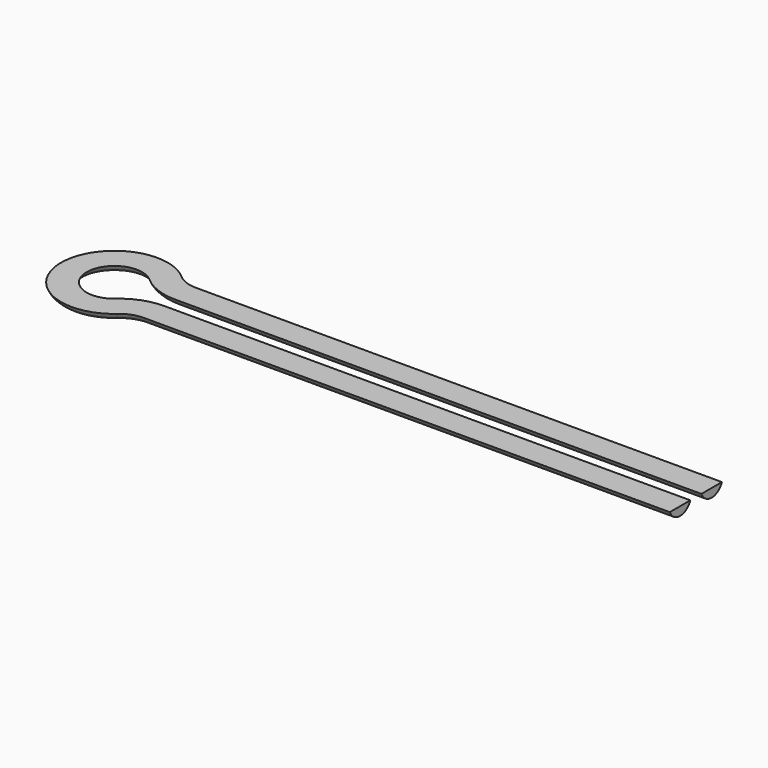
from build123d import *


with BuildPart() as f3:
    # F3: sweep along a path in F0
    with BuildLine(Plane.XY) as f3_path:
        Line((67.8468741477, 27.1481485665), (-27.0727876186, 27.1481485665))
        ThreePointArc((-27.0727876186, 27.1481485665), (-30.6083215245, 27.7940050995), (-33.6871658963, 29.6481485665))
        ThreePointArc((-33.6871658963, 29.6481485665), (-41.9943550351, 25.8981485665), (-33.6871658963, 22.1481485665))
        ThreePointArc((-33.6871658963, 22.1481485665), (-30.6083215245, 24.0022920334), (-27.0727876186, 24.6481485665))
        Line((-27.0727876186, 24.6481485665), (67.8468741477, 24.6481485665))
    # F2 (on plane+point) → F3 (sweep)
    with BuildSketch(Plane.YZ.offset(67.8468741477)):
        with BuildLine():
            Line((24.6481485665, 0), (20.0226833864, 0))
            ThreePointArc((20.0226833864, 0), (22.3354159764, -1.5506486599), (24.6481485665, 0))
        make_face()
    sweep(path=f3_path.line)


solid = f3.part
